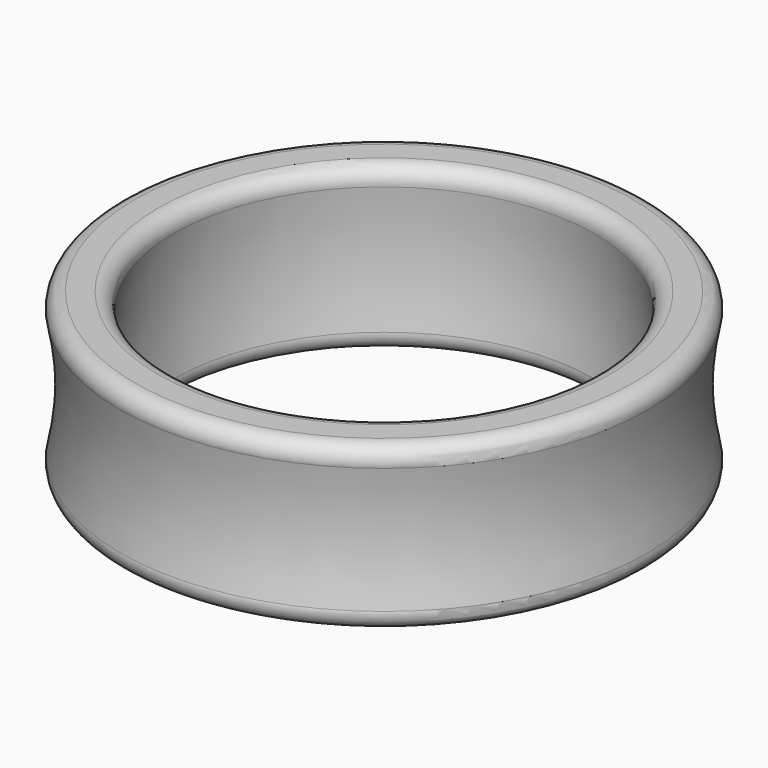
from build123d import *


with BuildPart() as f1:
    # F0 (on Front) → F1 (revolve)
    with BuildSketch(Plane.XZ):
        with BuildLine():
            ThreePointArc((-10.314405, -3.134314), (-10.557591, 0), (-10.314405, 3.134314))
            ThreePointArc((-10.314405, 3.134314), (-10.485664, 3.737717), (-11.055429, 4))
            Line((-11.055429, 4), (-12.188913, 4))
            ThreePointArc((-12.188913, 4), (-12.774763, 3.718273), (-12.920481, 3.084746))
            ThreePointArc((-12.920481, 3.084746), (-12.576408, 0), (-12.920481, -3.084746))
            ThreePointArc((-12.920481, -3.084746), (-12.774763, -3.718273), (-12.188913, -4))
            Line((-12.188913, -4), (-11.055429, -4))
            ThreePointArc((-11.055429, -4), (-10.485664, -3.737717), (-10.314405, -3.134314))
        make_face()
    revolve(axis=Axis((0, 0, 3.78206), (0, 0, 1)))


solid = f1.part
